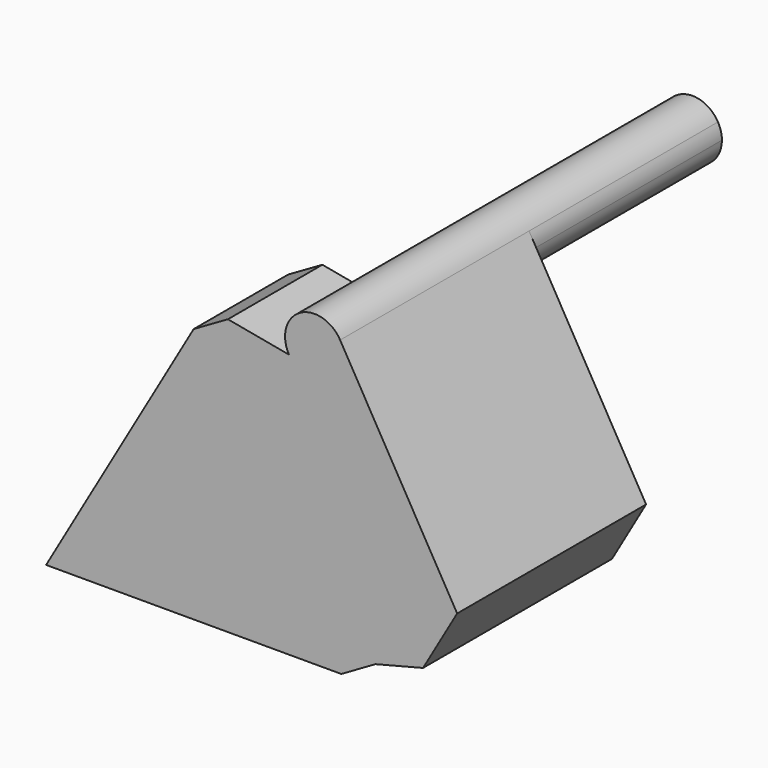
from build123d import *

# Parameters (mm, degrees)
F1_DEPTH = 12.7
F2_DEPTH = 25.4
F3_DEPTH = 50.8


with BuildPart() as f1:
    # F0 (on Front) → F1 (new body)
    with BuildSketch(Plane.XZ):
        Polygon((23.827744, -32.507298), (27.511551, -30.380452), (11.636551, -2.884145), (7.952744, -5.010992), (-7.922256, -32.507298), align=None)
        Polygon((27.511551, -30.380452), (32.624925, -29.077077), (18.205816, -4.102446), (11.636551, -2.884145), align=None)
    extrude(amount=-F1_DEPTH)

    # F0 (on Front) → F2 (join)
    with BuildSketch(Plane.XZ):
        with BuildLine():
            Line((32.624925, -29.077077), (36.2911, -22.727077))
            Line((36.2911, -22.727077), (23.705077, -0.927446))
            ThreePointArc((23.705077, -0.927446), (24.022261, -1.693196), (24.130446, -2.514946))
            ThreePointArc((24.130446, -2.514946), (21.777197, -5.581761), (18.205816, -4.102446))
            Line((18.205816, -4.102446), (32.624925, -29.077077))
        make_face()
    extrude(amount=-F2_DEPTH)

    # F0 (on Front) → F3 (join)
    with BuildSketch(Plane.XZ):
        with BuildLine():
            ThreePointArc((24.130446, -2.514946), (24.022261, -1.693196), (23.705077, -0.927446))
            ThreePointArc((23.705077, -0.927446), (19.367946, 0.234685), (18.205816, -4.102446))
            ThreePointArc((18.205816, -4.102446), (21.777197, -5.581761), (24.130446, -2.514946))
        make_face()
    extrude(amount=-F3_DEPTH)


solid = f1.part
